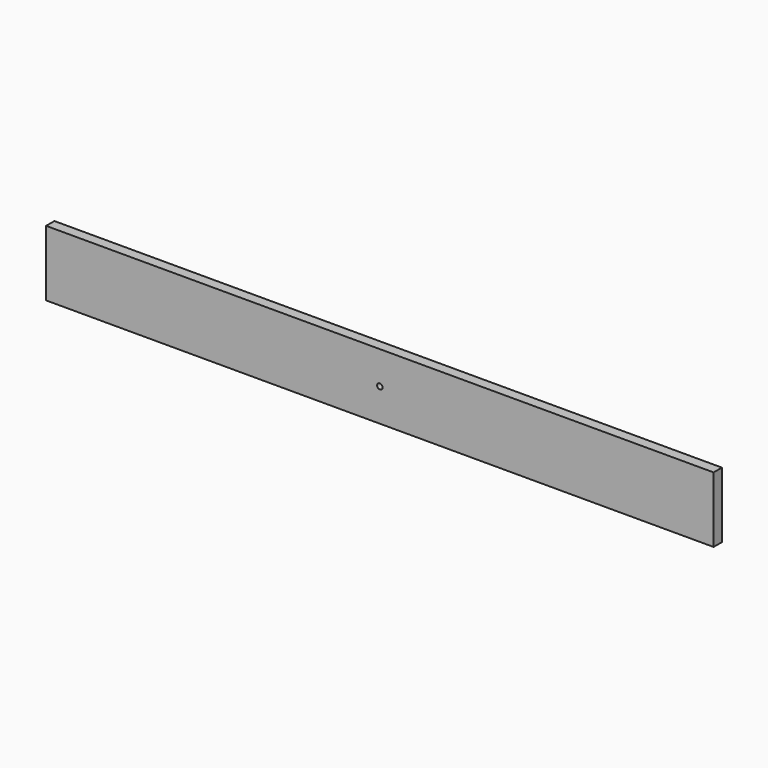
from build123d import *

# Parameters (mm, degrees)
F0_W          = 9.5
F0_H          = 60
F1_DEPTH      = 305
F1_DEPTH_BACK = 305
F2_R          = 2.5
F3_DEPTH      = 4.75
F3_DEPTH_BACK = 4.75


with BuildPart() as f1:
    # F0 (on Right) → F1 (new body, two sides)
    with BuildSketch(Plane.YZ) as f1_sk:
        Rectangle(F0_W, F0_H)
    extrude(amount=F1_DEPTH)
    extrude(f1_sk.sketch, amount=-F1_DEPTH_BACK)

    # F2 (on Front) → F3 (cut, two sides)
    with BuildSketch(Plane.XZ) as f3_sk:
        Circle(F2_R)
    extrude(amount=F3_DEPTH, mode=Mode.SUBTRACT)
    extrude(f3_sk.sketch, amount=-F3_DEPTH_BACK, mode=Mode.SUBTRACT)


solid = f1.part
